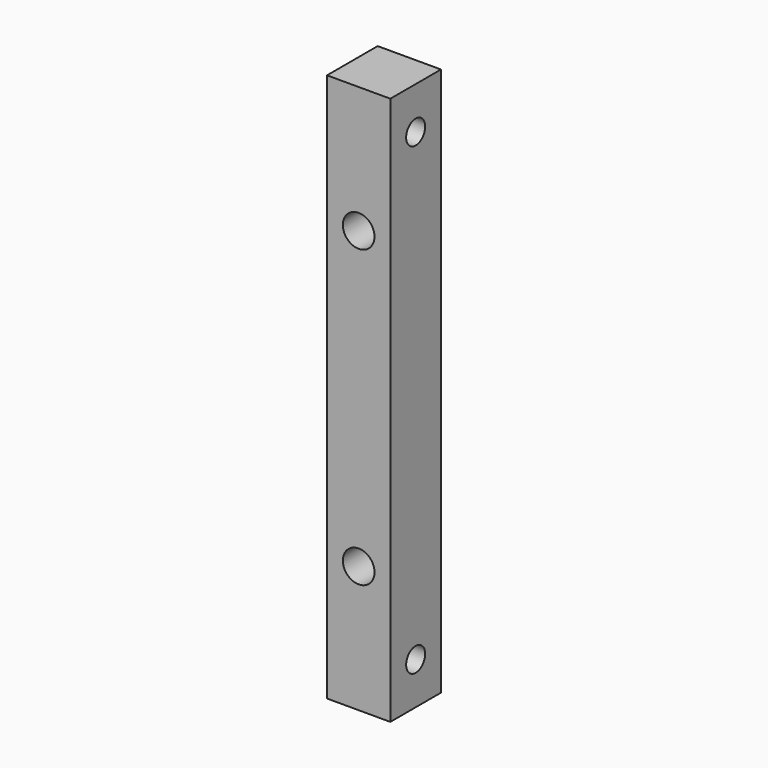
from build123d import *

# Parameters (mm, degrees)
F0_W     = 9.525
F0_H     = 9.525
F1_DEPTH = 41.275
F2_R     = 1.7859375
F3_DEPTH = 9.525
F4_R     = 2.38125
F5_DEPTH = 9.525


with BuildPart() as f1:
    # F0 (on Top) → F1 (new body, symmetric)
    with BuildSketch(Plane.XY):
        Rectangle(F0_W, F0_H)
    extrude(amount=F1_DEPTH, both=True)

    # F2 (on face) → F3 (cut, through all)
    with BuildSketch(Plane(origin=(-4.7625, 0, 0), x_dir=(0, -1, 0), z_dir=(-1, 0, 0))):
        with Locations((0, 34.925)):
            Circle(F2_R)
        with Locations((0, -34.925)):
            Circle(F2_R)
    extrude(amount=-F3_DEPTH, mode=Mode.SUBTRACT)

    # F4 (on face) → F5 (cut, through all)
    with BuildSketch(Plane(origin=(0, 4.7625, 0), x_dir=(-1, 0, 0), z_dir=(0, 1, 0))):
        with Locations((0, -22.225)):
            Circle(F4_R)
        with Locations((0, 22.225)):
            Circle(F4_R)
    extrude(amount=-F5_DEPTH, mode=Mode.SUBTRACT)


solid = f1.part
